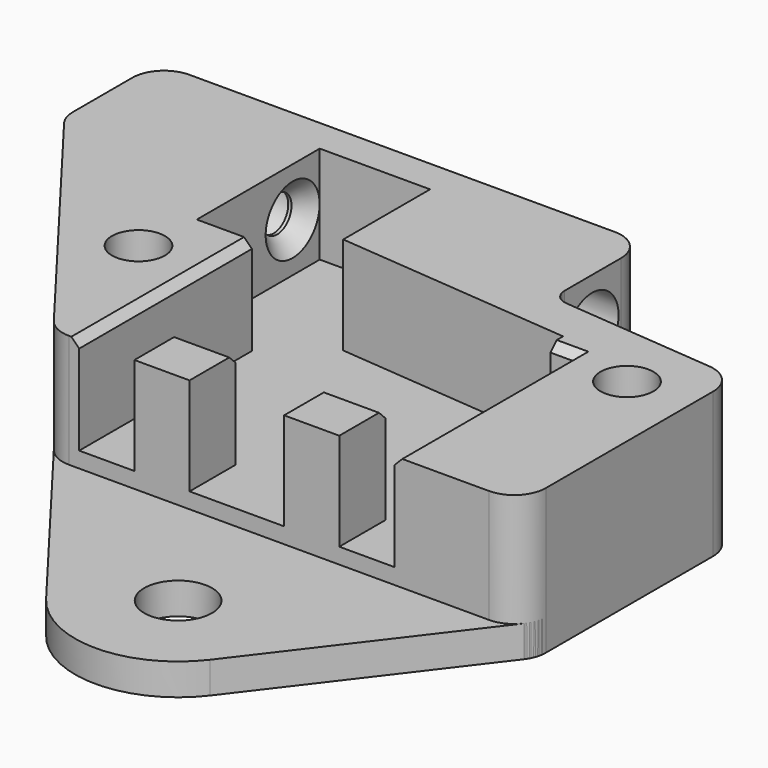
from build123d import *

# Parameters (mm, degrees)
SKETCH007_R       = 1.68
PAD002_DEPTH      = 2
FILLET002_R       = 2
FILLET003_R       = 1
PAD_DEPTH         = 3
POCKET003_DEPTH   = 2.6
SKETCH009_R       = 1.68
POCKET004_DEPTH   = 0.2
SKETCH004_R       = 1.68
SKETCH004_W       = 3.5
SKETCH004_H       = 3.65
PAD001_DEPTH      = 6.2
FILLET_R          = 2
FILLET001_R       = 1
SKETCH003_R       = 1.15
POCKET_DEPTH      = 25.501
POCKET_DEPTH_BACK = 18.001
CHAMFER_SIZE      = 0.99
SKETCH005_R       = 2.1
POCKET001_DEPTH   = 10.8
SKETCH006_R       = 2.1
POCKET002_DEPTH   = 10.8
CHAMFER001_SIZE   = 0.5
SKETCH010_R       = 2.15
PAD003_DEPTH      = 2


with BuildPart() as lid:
    # Sketch007 → Pad002 (new body)
    with BuildSketch(Plane.XY):
        Polygon((-25.5, 14.029466), (-25.5, 6.629466), (-11.641508, -11.570534), (18, -11.570534), (18, 5.535858), (5.5, 6.629466), (5.5, 14.029466), align=None)
        with Locations((-14, -1.870534)):
            Circle(SKETCH007_R, mode=Mode.SUBTRACT)
        with Locations((14, 1.870534)):
            Circle(SKETCH007_R, mode=Mode.SUBTRACT)
    extrude(amount=PAD002_DEPTH)

    # Fillet002
    fillet002_edges = [lid.edges().sort_by_distance(p)[0] for p in [
        (-25.5, 14.029466, 1),
        (5.5, 14.029466, 1),
        (18, 5.535858, 1),
        (18, -11.570534, 1),
        (-11.641508, -11.570534, 1),
        (-25.5, 6.629466, 1),
    ]]
    fillet(fillet002_edges, radius=FILLET002_R)

    # Fillet003
    fillet003_edges = [lid.edges().sort_by_distance(p)[0] for p in [
        (5.5, 6.629466, 1),
    ]]
    fillet(fillet003_edges, radius=FILLET003_R)


with BuildPart() as obj1:
    # Sketch001 → Pad (new body)
    with BuildSketch(Plane.XY):
        Polygon((-25.5, 14.029466), (-25.5, 6.629466), (-11.641508, -11.570534), (18, -11.570534), (18, 5.535858), (5.5, 6.629466), (5.5, 14.029466), align=None)
    extrude(amount=PAD_DEPTH)

    # Sketch008 → Pocket003 (cut)
    with BuildSketch(Plane.XY):
        Polygon((10.6, 1.870534), (12.3, -1.073953), (15.7, -1.073953), (17.4, 1.870534), (15.7, 4.81502), (12.3, 4.81502), align=None)
        Polygon((-12.3, 1.073953), (-15.7, 1.073953), (-17.4, -1.870534), (-15.7, -4.81502), (-12.3, -4.81502), (-10.6, -1.870534), align=None)
    extrude(amount=POCKET003_DEPTH, mode=Mode.SUBTRACT)

    # Sketch009 → Pocket004 (cut)
    with BuildSketch(Plane.XY.offset(3)):
        with Locations((14, 1.870534)):
            Circle(SKETCH009_R)
        with Locations((-14, -1.870534)):
            Circle(SKETCH009_R)
    extrude(amount=-POCKET004_DEPTH, mode=Mode.SUBTRACT)

    # Sketch004 → Pad001 (join)
    with BuildSketch(Plane.XY.offset(3)):
        Polygon((-25.5, 14.029466), (-25.5, 6.629466), (-11.641508, -11.570534), (-10, -11.570534), (-10, 2.129466), (-13.5, 2.129466), (-13.5, 11.879466), (-6.5, 11.879466), (-6.5, 4.991796), (8.5, 3.679466), (8.5, 2.679466), (10, 2.679466), (10, -11.570534), (18, -11.570534), (18, 5.535858), (5.5, 6.629466), (5.5, 14.029466), align=None)
        with Locations((-14, -1.870534)):
            Circle(SKETCH004_R, mode=Mode.SUBTRACT)
        with Locations((14, 1.870534)):
            Circle(SKETCH004_R, mode=Mode.SUBTRACT)
        with Locations((-4.75, -9.745534)):
            Rectangle(SKETCH004_W, SKETCH004_H)
        with Locations((4.75, -9.745534)):
            Rectangle(SKETCH004_W, SKETCH004_H)
    extrude(amount=PAD001_DEPTH)

    # Fillet
    fillet_edges = [obj1.edges().sort_by_distance(p)[0] for p in [
        (-25.5, 6.629466, 4.6),
        (-25.5, 14.029466, 4.6),
        (-11.641508, -11.570534, 4.6),
        (18, -11.570534, 4.6),
        (5.5, 14.029466, 4.6),
        (18, 5.535858, 4.6),
    ]]
    fillet(fillet_edges, radius=FILLET_R)

    # Fillet001
    fillet001_edges = [obj1.edges().sort_by_distance(p)[0] for p in [
        (5.5, 6.629466, 4.6),
    ]]
    fillet(fillet001_edges, radius=FILLET001_R)

    # Sketch003 → Pocket (cut, two sides)
    with BuildSketch(Plane.YZ) as pocket_sk:
        with Locations((9.729466, 6.1)):
            Circle(SKETCH003_R)
    extrude(amount=-POCKET_DEPTH, mode=Mode.SUBTRACT)
    extrude(pocket_sk.sketch, amount=POCKET_DEPTH_BACK, mode=Mode.SUBTRACT)

    # Chamfer
    chamfer_edges = [obj1.edges().sort_by_distance(p)[0] for p in [
        (-6.5, 8.579466, 6.1),
        (-13.5, 8.579466, 6.1),
    ]]
    chamfer(chamfer_edges, length=CHAMFER_SIZE)

    # Sketch005 (on DatumPlane) → Pocket001 (cut)
    with BuildSketch(Plane(origin=(5.5, 9.729466, 0), x_dir=(0, -1, 0), z_dir=(-1, 0, 0))):
        with Locations((0, 6.1)):
            Circle(SKETCH005_R)
    extrude(amount=POCKET001_DEPTH, mode=Mode.SUBTRACT)

    # Sketch006 (on DatumPlane) → Pocket002 (cut)
    with BuildSketch(Plane(origin=(-25.5, 9.729466, 0), x_dir=(0, -1, 0), z_dir=(-1, 0, 0))):
        with Locations((0, 6.1)):
            Circle(SKETCH006_R)
    extrude(amount=-POCKET002_DEPTH, mode=Mode.SUBTRACT)

    # Chamfer001
    chamfer001_edges = [obj1.edges().sort_by_distance(p)[0] for p in [
        (-10, -4.720534, 9.2),
        (10, -4.445534, 9.2),
        (9.25, 2.679466, 9.2),
        (4.75, -7.920534, 9.2),
        (-4.75, -7.920534, 9.2),
    ]]
    chamfer(chamfer001_edges, length=CHAMFER001_SIZE)

    # Sketch010 → Pad003 (new body)
    with BuildSketch(Plane.XY):
        with BuildLine():
            Line((-12.241813, -10.782168), (-2.531331, -23.534693))
            ThreePointArc((-2.531331, -23.534693), (2.674697, -26.114026), (7.880726, -23.534693))
            Line((7.880726, -23.534693), (17.591208, -10.782168))
            Line((-12.241813, -10.782168), (17.591208, -10.782168))
        make_face()
        with Locations((2.674697, -19.570534)):
            Circle(SKETCH010_R, mode=Mode.SUBTRACT)
    extrude(amount=PAD003_DEPTH)


solid = Compound([lid.part, obj1.part])
